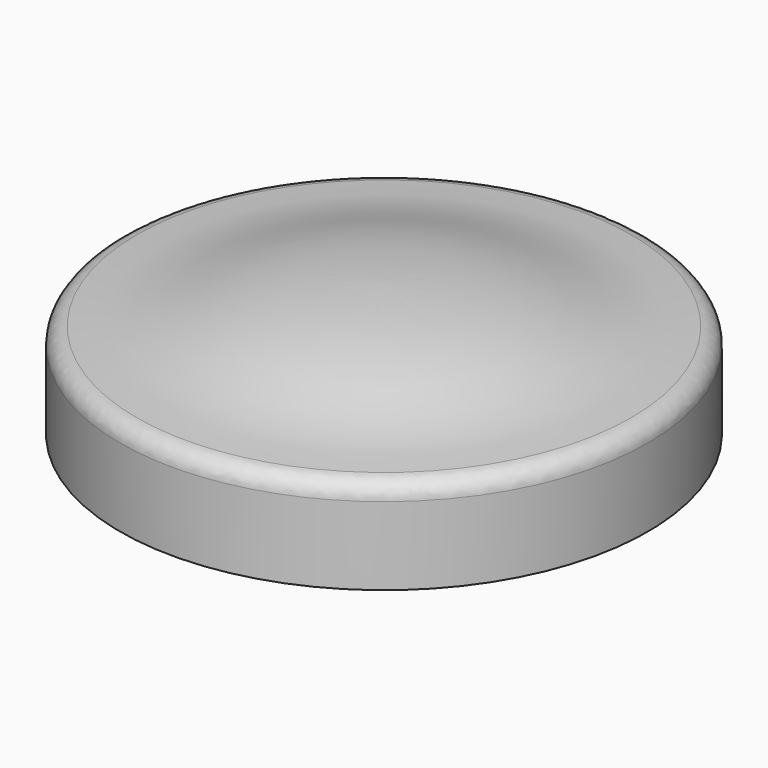
from build123d import *

# Parameters (mm, degrees)
F0_W = 78.5409712166
F0_H = 28.1962007284
F2_R = 5.08


with BuildPart() as f1:
    # F0 (on Front) → F1 (revolve)
    with BuildSketch(Plane.XZ):
        with BuildLine():
            add(Edge.make_bspline(
                [(-78.5409712166, 0), (-44.1886295471, 0), (-45.1757596272, 11.0858945773), (0, 11.6683909704)],
                knots=[0, 0, 0, 0, 79.4029943232, 79.4029943232, 79.4029943232, 79.4029943232], degree=3))
            Line((-78.5409712166, 0), (0, 0))
            Line((0, 0), (0, 11.6683909704))
        make_face()
        with Locations((-39.2704856083, -14.0981003642)):
            Rectangle(F0_W, F0_H)
    revolve(axis=Axis((0, 0, -14.0981003642), (0, 0, -1)))

    # F2
    f2_edges = [f1.edges().sort_by_distance(p)[0] for p in [
        (78.540971, 0, 0),
    ]]
    fillet(f2_edges, radius=F2_R)


solid = f1.part
